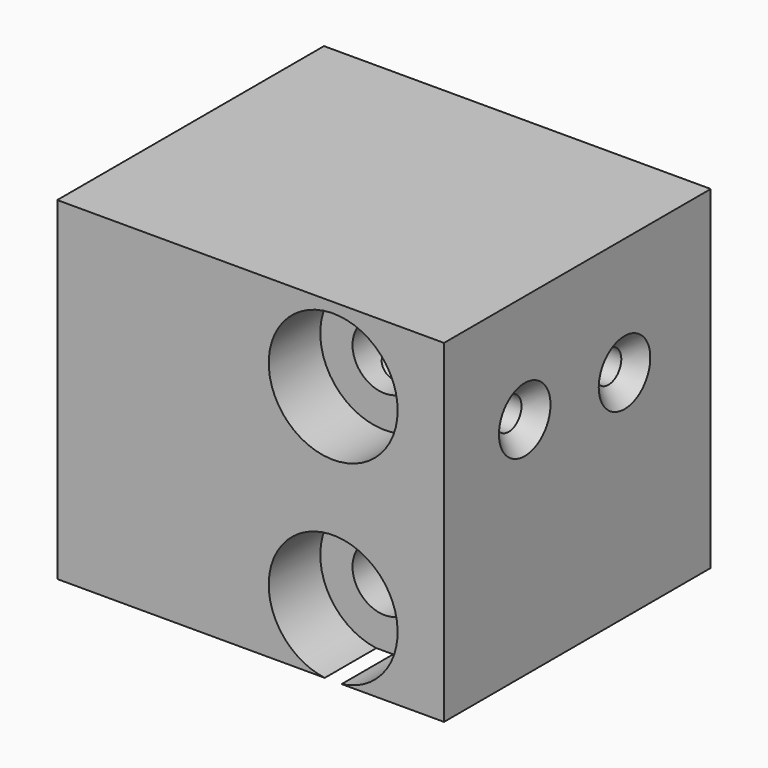
from build123d import *

# Parameters (mm, degrees)
F0_W           = 65.687917
F0_H           = 65.738029
F1_DEPTH       = 76.2
F3_D           = 6.35
F3_CSINK_D     = 12.7
F3_CSINK_ANGLE = 90
F5_D           = 12.7
F5_CBORE_D     = 25.4
F5_CBORE_DEPTH = 12.7


with BuildPart() as f1:
    # F0 (on Right) → F1 (new body)
    with BuildSketch(Plane.YZ):
        with Locations((6.479423, -2.465733)):
            Rectangle(F0_W, F0_H)
    extrude(amount=F1_DEPTH)

    # F3 (through all)
    with Locations(Plane.YZ.offset(76.2)):
        with Locations((-6.490372, 9.031592), (18.086735, 7.191747)):
            CounterSinkHole(F3_D / 2, F3_CSINK_D / 2, counter_sink_angle=F3_CSINK_ANGLE)

    # F5 (through all)
    with Locations(Plane.XZ.offset(26.364535)):
        with Locations((54.363161, 15.718481), (54.363161, -22.743117)):
            CounterBoreHole(F5_D / 2, F5_CBORE_D / 2, F5_CBORE_DEPTH)


solid = f1.part
